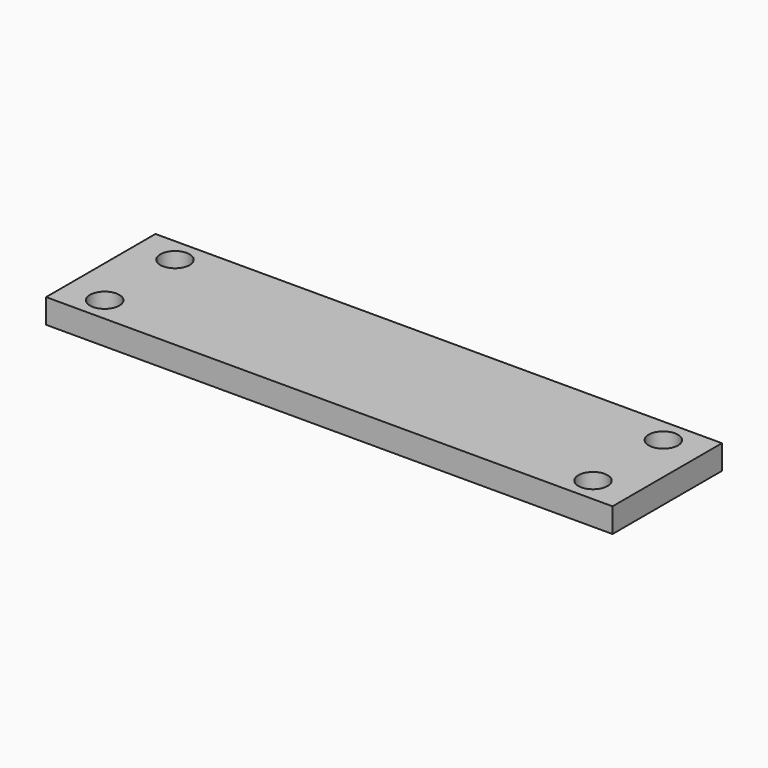
from build123d import *

# Parameters (mm, degrees)
F0_W     = 58
F0_H     = 5
F0_R     = 1.5
F0_H_2   = 9
F1_DEPTH = 2.5


with BuildPart() as f1:
    # F0 (on Top) → F1 (new body)
    with BuildSketch(Plane.XY):
        with Locations((0, 11.5)):
            Rectangle(F0_W, F0_H)
        with Locations((-25, 11.5)):
            Circle(F0_R, mode=Mode.SUBTRACT)
        with Locations((25, 11.5)):
            Circle(F0_R, mode=Mode.SUBTRACT)
        with Locations((0, 4.5)):
            Rectangle(F0_W, F0_H_2)
        with Locations((-25, 2.5)):
            Circle(F0_R, mode=Mode.SUBTRACT)
        with Locations((25, 2.5)):
            Circle(F0_R, mode=Mode.SUBTRACT)
    extrude(amount=F1_DEPTH)


solid = f1.part
